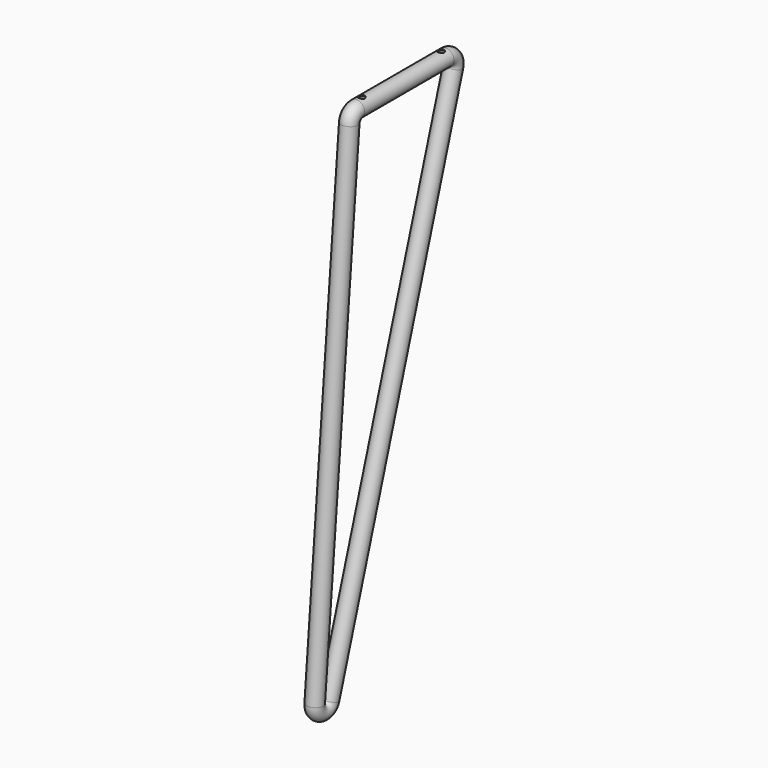
from build123d import *

# Parameters (mm, degrees)
F1_R     = 6.5
F1_R_2   = 6
F3_R     = 2.5
F4_DEPTH = 14.001


with BuildPart() as f2:
    # F2: sweep along a path in F0
    with BuildLine(Plane.YZ) as f2_path:
        Line((0, 7.5), (90, 7.5))
        ThreePointArc((90, 7.5), (96.044396, 4.440189), (97.15687, -2.242592))
        Line((97.15687, -2.242592), (-27.705427, -400.720471))
        ThreePointArc((-27.705427, -400.720471), (-36.318945, -405.835065), (-42.333757, -397.824211))
        Line((-42.333757, -397.824211), (-7.47146, 0.653668))
        ThreePointArc((-7.47146, 0.653668), (-5.066927, 5.52958), (0, 7.5))
    # F1 (on Front) → F2 (sweep)
    with BuildSketch(Plane.XZ):
        with Locations((0, 7.5)):
            Circle(F1_R)
        with Locations((0, 7.5)):
            Circle(F1_R_2, mode=Mode.SUBTRACT)
    sweep(path=f2_path.line)

    # F3 (on Top) → F4 (cut, through all)
    with BuildSketch(Plane.XY):
        with Locations((0, 5)):
            Circle(F3_R)
        with Locations((0, 85)):
            Circle(F3_R)
    extrude(amount=F4_DEPTH, mode=Mode.SUBTRACT)


solid = f2.part
